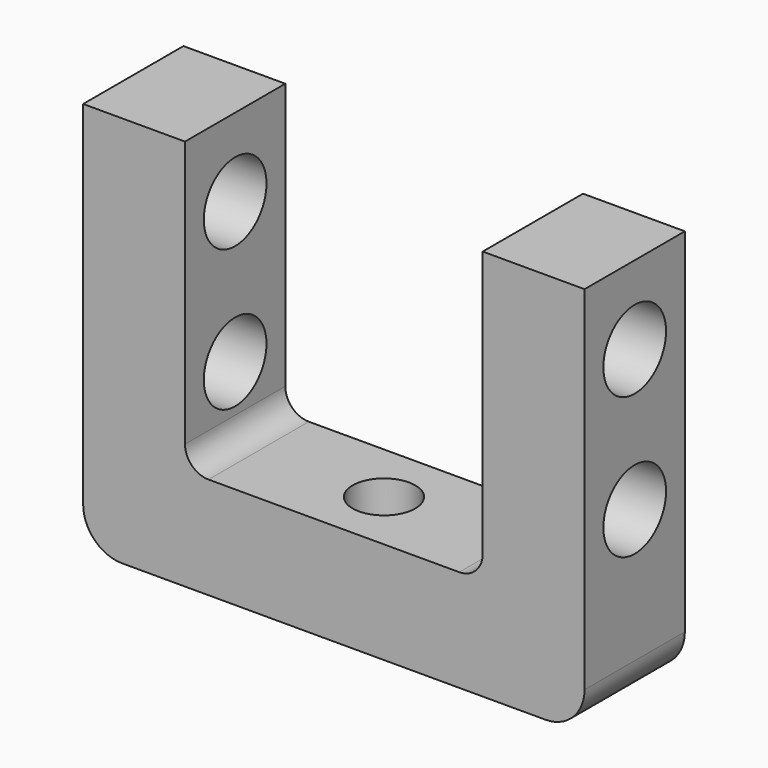
from build123d import *

# Parameters (mm, degrees)
F1_DEPTH = 16
F2_R     = 4
F3_DEPTH = 13
F4_R     = 5
F5_DEPTH = 65
F6_R     = 5
F7_R     = 5
F8_R     = 3
F9_R     = 3


with BuildPart() as f1:
    # F0 (on Front) → F1 (new body)
    with BuildSketch(Plane.XZ):
        Polygon((-32, 0), (0, 0), (0, 13), (-19, 13), (-19, 50), (-32, 50), align=None)
        Polygon((0, 13), (0, 0), (32, 0), (32, 50), (19, 50), (19, 13), align=None)
    extrude(amount=-F1_DEPTH)

    # F2 (on face) → F3 (cut)
    with BuildSketch(Plane.XY.offset(13)):
        with Locations((0, 8)):
            Circle(F2_R)
    extrude(amount=-F3_DEPTH, mode=Mode.SUBTRACT)

    # F4 (on face) → F5 (cut)
    with BuildSketch(Plane.YZ.offset(32)):
        with Locations((8, 22)):
            Circle(F4_R)
        with Locations((8, 40)):
            Circle(F4_R)
    extrude(amount=-F5_DEPTH, mode=Mode.SUBTRACT)

    # F6
    f6_edges = [f1.edges().sort_by_distance(p)[0] for p in [
        (32, 8, 0),
    ]]
    fillet(f6_edges, radius=F6_R)

    # F7
    f7_edges = [f1.edges().sort_by_distance(p)[0] for p in [
        (-32, 8, 0),
    ]]
    fillet(f7_edges, radius=F7_R)

    # F8
    f8_edges = [f1.edges().sort_by_distance(p)[0] for p in [
        (-19, 8, 13),
    ]]
    fillet(f8_edges, radius=F8_R)

    # F9
    f9_edges = [f1.edges().sort_by_distance(p)[0] for p in [
        (19, 8, 13),
    ]]
    fillet(f9_edges, radius=F9_R)


solid = f1.part
